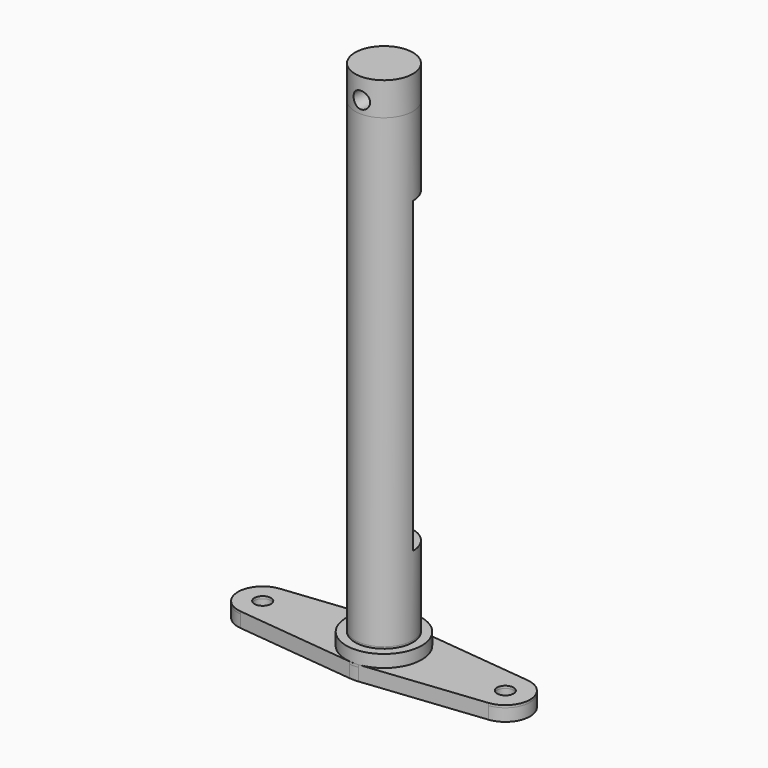
from build123d import *

# Parameters (mm, degrees)
F0_R          = 3.5
F1_DEPTH      = 56.35
F1_DEPTH_BACK = 1.5
F2_R          = 1
F3_DEPTH      = 2
F4_R          = 5
F5_R          = 5
F6_W          = 9.889290079
F6_H          = 18.65
F7_DEPTH      = 12.13642
F8_DEPTH      = 4
F9_R          = 1
F10_DEPTH     = 12.5
F11_R         = 1
F12_DEPTH     = 1.5
F13_R         = 1
F13_R_2       = 3.5
F14_DEPTH     = 1.71268
F15_R         = 4.5665029088
F16_DEPTH     = 1.5


with BuildPart() as f1:
    # F0 (on Top) → F1 (new body, two sides)
    with BuildSketch(Plane.XY) as f1_sk:
        Circle(F0_R)
    extrude(amount=F1_DEPTH)
    extrude(f1_sk.sketch, amount=-F1_DEPTH_BACK)

    # F2 (on Top) → F3 (join)
    with BuildSketch(Plane.XY):
        with BuildLine():
            Line((0, 4.5958375558), (-15.0020163562, 2.9683932874))
            ThreePointArc((-15.0020163562, 2.9683932874), (-16.902221013, 1.994188309), (-17.6658086413, 0))
            ThreePointArc((-17.6658086413, 0), (-16.902221013, -1.994188309), (-15.0020163562, -2.9683932874))
            Line((-15.0020163562, -2.9683932874), (0, -4.5958375558))
            Line((0, -4.5958375558), (15.0020163562, -2.9683932874))
            ThreePointArc((15.0020163562, -2.9683932874), (16.902221013, -1.994188309), (17.6658086413, 0))
            ThreePointArc((17.6658086413, 0), (16.902221013, 1.994188309), (15.0020163562, 2.9683932874))
            Line((15.0020163562, 2.9683932874), (0, 4.5958375558))
        make_face()
        with Locations((-14.68, 0)):
            Circle(F2_R, mode=Mode.SUBTRACT)
        with Locations((14.68, 0)):
            Circle(F2_R, mode=Mode.SUBTRACT)
    extrude(amount=-F3_DEPTH)

    # F4
    f4_edges = [f1.edges().sort_by_distance(p)[0] for p in [
        (0, 4.595838, -1),
    ]]
    fillet(f4_edges, radius=F4_R)

    # F5
    f5_edges = [f1.edges().sort_by_distance(p)[0] for p in [
        (0, -4.595838, -1),
    ]]
    fillet(f5_edges, radius=F5_R)

    # F6 (on Front) → F7 (cut)
    with BuildSketch(Plane.XZ):
        with Locations((-0.3122284543, 18.85)):
            Rectangle(F6_W, F6_H)
        with Locations((-0.3122284543, 37.5)):
            Rectangle(F6_W, F6_H)
    extrude(amount=-F7_DEPTH, mode=Mode.SUBTRACT)

    # F8 (add): a face of the model
    f8_faces = [f1.faces().sort_by_distance(p)[0] for p in [
        (0, 0, 56.35),
    ]]
    extrude(f8_faces, amount=F8_DEPTH)

    # F9 (on Front) → F10 (cut, symmetric)
    with BuildSketch(Plane.XZ):
        with Locations((0, 57.85)):
            Circle(F9_R)
    extrude(amount=F10_DEPTH, both=True, mode=Mode.SUBTRACT)

    # F11 (on face) → F12 (join)
    with BuildSketch(Plane(origin=(0, 0, -2), x_dir=(1, 0, 0), z_dir=(0, 0, -1))):
        with BuildLine():
            Line((-0.539244799, 4.5373393622), (-15.0020163562, 2.9683932874))
            ThreePointArc((-15.0020163562, 2.9683932874), (-17.6658086413, 0), (-15.0020163562, -2.9683932874))
            Line((-15.0020163562, -2.9683932874), (-0.539244799, -4.5373393622))
            ThreePointArc((-0.539244799, -4.5373393622), (0, -4.5665029088), (0.539244799, -4.5373393622))
            Line((0.539244799, -4.5373393622), (15.0020163562, -2.9683932874))
            ThreePointArc((15.0020163562, -2.9683932874), (17.6658086413, 0), (15.0020163562, 2.9683932874))
            Line((15.0020163562, 2.9683932874), (0.539244799, 4.5373393622))
            ThreePointArc((0.539244799, 4.5373393622), (0, 4.5665029088), (-0.539244799, 4.5373393622))
        make_face()
        with Locations((-14.68, 0)):
            Circle(F11_R, mode=Mode.SUBTRACT)
        with Locations((14.68, 0)):
            Circle(F11_R, mode=Mode.SUBTRACT)
    extrude(amount=F12_DEPTH)

    # F13 (on face) → F14 (cut)
    with BuildSketch(Plane.XY):
        with BuildLine():
            Line((0.539244799, -4.5373393622), (15.0020163562, -2.9683932874))
            ThreePointArc((15.0020163562, -2.9683932874), (17.6658086413, 0), (15.0020163562, 2.9683932874))
            Line((15.0020163562, 2.9683932874), (0.539244799, 4.5373393622))
            ThreePointArc((0.539244799, 4.5373393622), (0, 4.5665029088), (-0.539244799, 4.5373393622))
            Line((-0.539244799, 4.5373393622), (-15.0020163562, 2.9683932874))
            ThreePointArc((-15.0020163562, 2.9683932874), (-17.6658086413, 0), (-15.0020163562, -2.9683932874))
            Line((-15.0020163562, -2.9683932874), (-0.539244799, -4.5373393622))
            ThreePointArc((-0.539244799, -4.5373393622), (0, -4.5665029088), (0.539244799, -4.5373393622))
        make_face()
        with Locations((-14.68, 0)):
            Circle(F13_R, mode=Mode.SUBTRACT)
        Circle(F13_R_2, mode=Mode.SUBTRACT)
        with Locations((14.68, 0)):
            Circle(F13_R, mode=Mode.SUBTRACT)
    extrude(amount=-F14_DEPTH, mode=Mode.SUBTRACT)

    # F15 (on face) → F16 (join)
    with BuildSketch(Plane.XY.offset(-1.71268)):
        Circle(F15_R)
    extrude(amount=F16_DEPTH)


solid = f1.part
